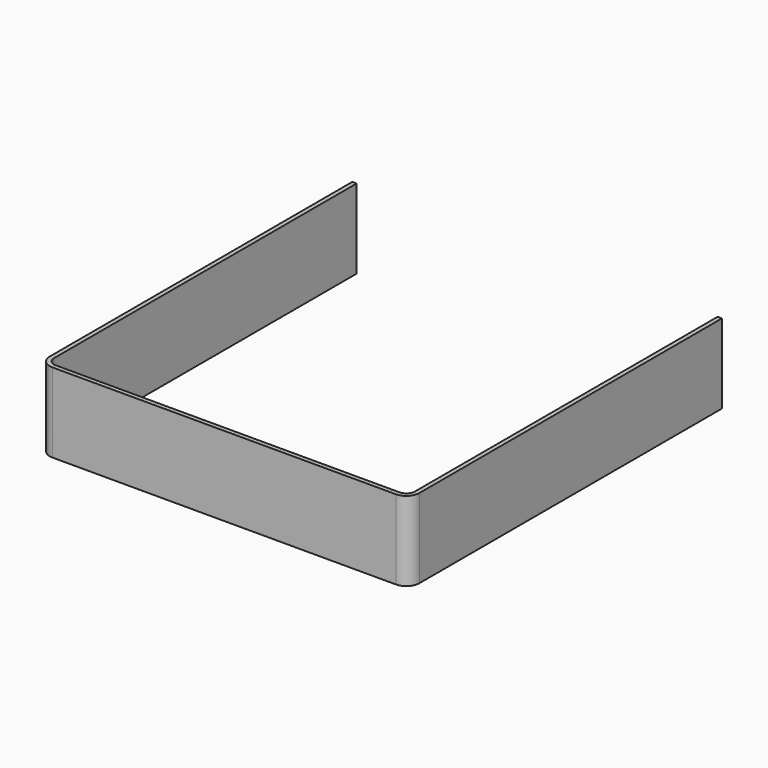
from build123d import *

# Parameters (mm, degrees)
SKETCH040_W    = 250
SKETCH040_H    = 268
PAD011_DEPTH   = 55
FILLET013_R    = 6
THICKNESS001_T = 3


with BuildPart() as part:
    # Sketch040 → Pad011 (new body)
    with BuildSketch(Plane.XY):
        with Locations((0, -134)):
            Rectangle(SKETCH040_W, SKETCH040_H)
    extrude(amount=PAD011_DEPTH)

    # Fillet013
    fillet013_edges = [part.edges().sort_by_distance(p)[0] for p in [
        (125, -268, 27.5),
        (-125, -268, 27.5),
    ]]
    fillet(fillet013_edges, radius=FILLET013_R)

    # Thickness001
    thickness001_openings = [part.faces().sort_by_distance(p)[0] for p in [
        (0, -133.969399, 55),
        (0, -133.969399, 0),
        (0, 0, 27.5),
    ]]
    offset(amount=THICKNESS001_T, openings=thickness001_openings)


solid = part.part
